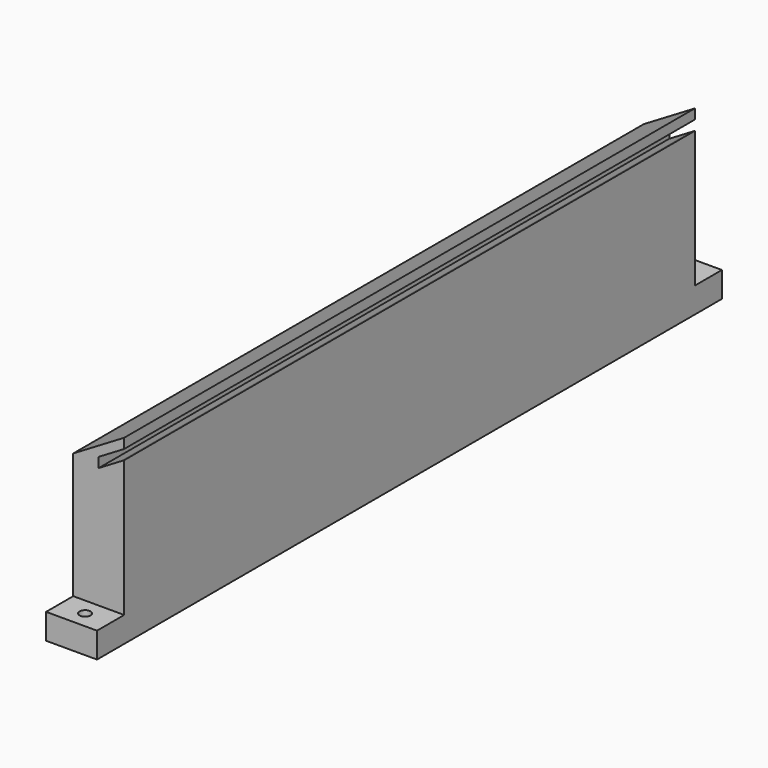
from build123d import *

# Parameters (mm, degrees)
F1_DEPTH = 460
F2_W     = 30
F2_H     = 93
F3_DEPTH = 20
F5_DEPTH = 20
F6_R     = 3.25
F7_DEPTH = 15.001


with BuildPart() as f1:
    # F0 (on Front) → F1 (new body)
    with BuildSketch(Plane.XZ):
        Polygon((18.685265, 56.099155), (-11.314735, 38.215565), (-11.314735, -50.784435), (18.685265, -50.784435), (18.685265, -35.784435), (18.685265, 38.636174), (18.685265, 44.457167), (16.12505, 42.930973), (3.685265, 35.515373), (3.685265, 38.636174), (3.685265, 41.336367), (18.685265, 50.278161), align=None)
    extrude(amount=F1_DEPTH)

    # F2 (on face) → F3 (cut)
    with BuildSketch(Plane.XZ.offset(460)):
        with Locations((3.685265, 10.715565)):
            Rectangle(F2_W, F2_H)
    extrude(amount=-F3_DEPTH, mode=Mode.SUBTRACT)

    # F4 (on face) → F5 (cut)
    with BuildSketch(Plane(origin=(0, 0, 0), x_dir=(-1, 0, 0), z_dir=(0, 1, 0))):
        Polygon((-18.685265, 57.215565), (-18.685265, -35.784435), (11.314735, -35.784435), (11.314735, -26.784435), (11.314735, 57.215565), align=None)
    extrude(amount=-F5_DEPTH, mode=Mode.SUBTRACT)

    # F6 (on face) → F7 (cut, through all)
    with BuildSketch(Plane.XY.offset(-35.784435)):
        with Locations((3.685265, -10)):
            Circle(F6_R)
        with Locations((3.685265, -450)):
            Circle(F6_R)
    extrude(amount=-F7_DEPTH, mode=Mode.SUBTRACT)


solid = f1.part
